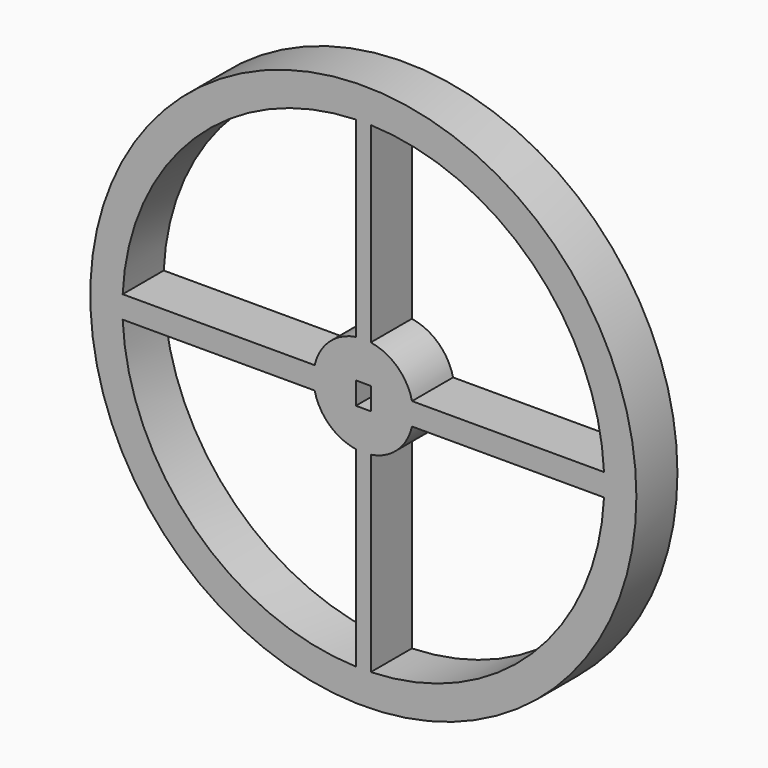
from build123d import *

# Parameters (mm, degrees)
F0_R     = 135.1370109591
F0_R_2   = 119.2368158662
F1_DEPTH = 25.4
F3_DEPTH = 25.4


with BuildPart() as f1:
    # F0 (on Front) → F1 (new body)
    with BuildSketch(Plane.XZ):
        Circle(F0_R)
        Circle(F0_R_2, mode=Mode.SUBTRACT)
    extrude(amount=F1_DEPTH)

    # F2 (on Front) → F3 (join)
    with BuildSketch(Plane.XZ):
        with BuildLine():
            ThreePointArc((24.0974397832, -5.5283317342), (24.5664500946, -2.7818313428), (24.7234515364, 0))
            ThreePointArc((24.7234515364, 0), (24.5664500946, 2.7818313428), (24.0974397832, 5.5283317342))
            Line((24.0974397832, 5.5283317342), (3.6855512299, 5.5283317342))
            Line((3.6855512299, 5.5283317342), (3.6855512299, -5.5283317342))
            Line((3.6855512299, -5.5283317342), (24.0974397832, -5.5283317342))
        make_face()
        with BuildLine():
            ThreePointArc((24.0974397832, 5.5283317342), (24.5664500946, 2.7818313428), (24.7234515364, 0))
            ThreePointArc((24.7234515364, 0), (24.5664500946, -2.7818313428), (24.0974397832, -5.5283317342))
            Line((24.0974397832, -5.5283317342), (120.7019090652, -5.5283317342))
            Line((120.7019090652, -5.5283317342), (120.7019090652, 5.5283317342))
            Line((120.7019090652, 5.5283317342), (24.0974397832, 5.5283317342))
        make_face()
        with BuildLine():
            Line((3.6855512299, 5.5283317342), (24.0974397832, 5.5283317342))
            ThreePointArc((24.0974397832, 5.5283317342), (16.8063849884, 18.132690906), (3.6855512299, 24.4472036847))
            Line((3.6855512299, 24.4472036847), (3.6855512299, 5.5283317342))
        make_face()
        with BuildLine():
            ThreePointArc((3.6855512299, -24.4472036847), (16.8063849884, -18.132690906), (24.0974397832, -5.5283317342))
            Line((24.0974397832, -5.5283317342), (3.6855512299, -5.5283317342))
            Line((3.6855512299, -5.5283317342), (3.6855512299, -24.4472036847))
        make_face()
        with BuildLine():
            Line((3.6855512299, 5.5283317342), (3.6855512299, 24.4472036847))
            ThreePointArc((3.6855512299, 24.4472036847), (0, 24.7234515364), (-3.6855512299, 24.4472036847))
            Line((-3.6855512299, 24.4472036847), (-3.6855512299, 5.5283317342))
            Line((-3.6855512299, 5.5283317342), (3.6855512299, 5.5283317342))
        make_face()
        with BuildLine():
            ThreePointArc((-3.6855512299, 24.4472036847), (0, 24.7234515364), (3.6855512299, 24.4472036847))
            Line((3.6855512299, 24.4472036847), (3.6855512299, 119.3198338151))
            Line((3.6855512299, 119.3198338151), (-3.6855512299, 119.3198338151))
            Line((-3.6855512299, 119.3198338151), (-3.6855512299, 24.4472036847))
        make_face()
        with BuildLine():
            Line((3.6855512299, -119.3198338151), (3.6855512299, -24.4472036847))
            ThreePointArc((3.6855512299, -24.4472036847), (0, -24.7234515364), (-3.6855512299, -24.4472036847))
            Line((-3.6855512299, -24.4472036847), (-3.6855512299, -119.3198338151))
            Line((-3.6855512299, -119.3198338151), (3.6855512299, -119.3198338151))
        make_face()
        with BuildLine():
            ThreePointArc((-3.6855512299, -24.4472036847), (0, -24.7234515364), (3.6855512299, -24.4472036847))
            Line((3.6855512299, -24.4472036847), (3.6855512299, -5.5283317342))
            Line((3.6855512299, -5.5283317342), (-3.6855512299, -5.5283317342))
            Line((-3.6855512299, -5.5283317342), (-3.6855512299, -24.4472036847))
        make_face()
        with BuildLine():
            Line((-3.6855512299, 5.5283317342), (-3.6855512299, 24.4472036847))
            ThreePointArc((-3.6855512299, 24.4472036847), (-16.8063849884, 18.132690906), (-24.0974397832, 5.5283317342))
            Line((-24.0974397832, 5.5283317342), (-3.6855512299, 5.5283317342))
        make_face()
        with BuildLine():
            Line((-3.6855512299, -5.5283317342), (-3.6855512299, 5.5283317342))
            Line((-3.6855512299, 5.5283317342), (-24.0974397832, 5.5283317342))
            ThreePointArc((-24.0974397832, 5.5283317342), (-24.7234515364, 0), (-24.0974397832, -5.5283317342))
            Line((-24.0974397832, -5.5283317342), (-3.6855512299, -5.5283317342))
        make_face()
        with BuildLine():
            ThreePointArc((-24.0974397832, -5.5283317342), (-16.8063849884, -18.132690906), (-3.6855512299, -24.4472036847))
            Line((-3.6855512299, -24.4472036847), (-3.6855512299, -5.5283317342))
            Line((-3.6855512299, -5.5283317342), (-24.0974397832, -5.5283317342))
        make_face()
        with BuildLine():
            ThreePointArc((-24.0974397832, -5.5283317342), (-24.7234515364, 0), (-24.0974397832, 5.5283317342))
            Line((-24.0974397832, 5.5283317342), (-120.7019090652, 5.5283317342))
            Line((-120.7019090652, 5.5283317342), (-120.7019090652, -5.5283317342))
            Line((-120.7019090652, -5.5283317342), (-24.0974397832, -5.5283317342))
        make_face()
    extrude(amount=F3_DEPTH)


solid = f1.part
